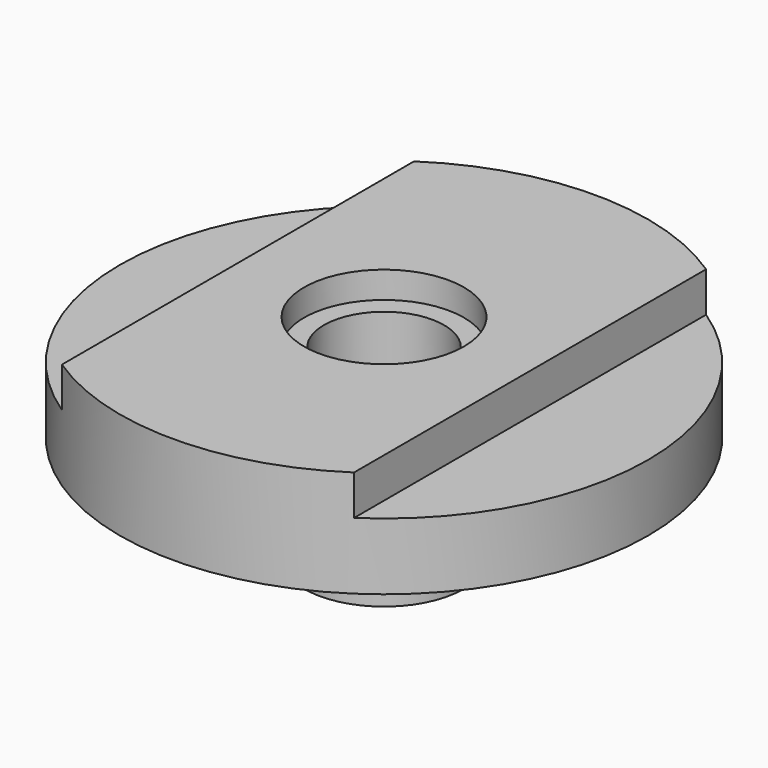
from build123d import *

# Parameters (mm, degrees)
F0_R     = 19.8
F1_DEPTH = 16
F3_DEPTH = 3
F4_R     = 19.8
F4_R_2   = 6
F5_DEPTH = 8
F7_D     = 9
F8_R     = 6
F8_R_2   = 4.5
F9_DEPTH = 2


with BuildPart() as f1:
    # F0 (on Top) → F1 (new body)
    with BuildSketch(Plane.XY):
        Circle(F0_R)
    extrude(amount=F1_DEPTH)

    # F2 (on face) → F3 (cut)
    with BuildSketch(Plane.XY.offset(16)):
        with BuildLine():
            Line((-10.95, -16.4965905568), (-10.95, 16.4965905568))
            ThreePointArc((-10.95, 16.4965905568), (-19.8, 0), (-10.95, -16.4965905568))
        make_face()
        with BuildLine():
            ThreePointArc((19.8, 0), (17.4477792283, 9.3602884571), (10.95, 16.4965905568))
            Line((10.95, 16.4965905568), (10.95, -16.4965905568))
            ThreePointArc((10.95, -16.4965905568), (17.4477792283, -9.3602884571), (19.8, 0))
        make_face()
    extrude(amount=-F3_DEPTH, mode=Mode.SUBTRACT)

    # F4 (on face) → F5 (cut)
    with BuildSketch(Plane(origin=(0, 0, 0), x_dir=(1, 0, 0), z_dir=(0, 0, -1))):
        Circle(F4_R)
        Circle(F4_R_2, mode=Mode.SUBTRACT)
    extrude(amount=-F5_DEPTH, mode=Mode.SUBTRACT)

    # F7 (through all)
    with Locations(Plane(origin=(0, 0, 0), x_dir=(1, 0, 0), z_dir=(0, 0, -1))):
        with Locations((0, 0)):
            Hole(F7_D / 2)

    # F8 (on face) → F9 (cut)
    with BuildSketch(Plane.XY.offset(16)):
        Circle(F8_R)
        Circle(F8_R_2, mode=Mode.SUBTRACT)
    extrude(amount=-F9_DEPTH, mode=Mode.SUBTRACT)


solid = f1.part
